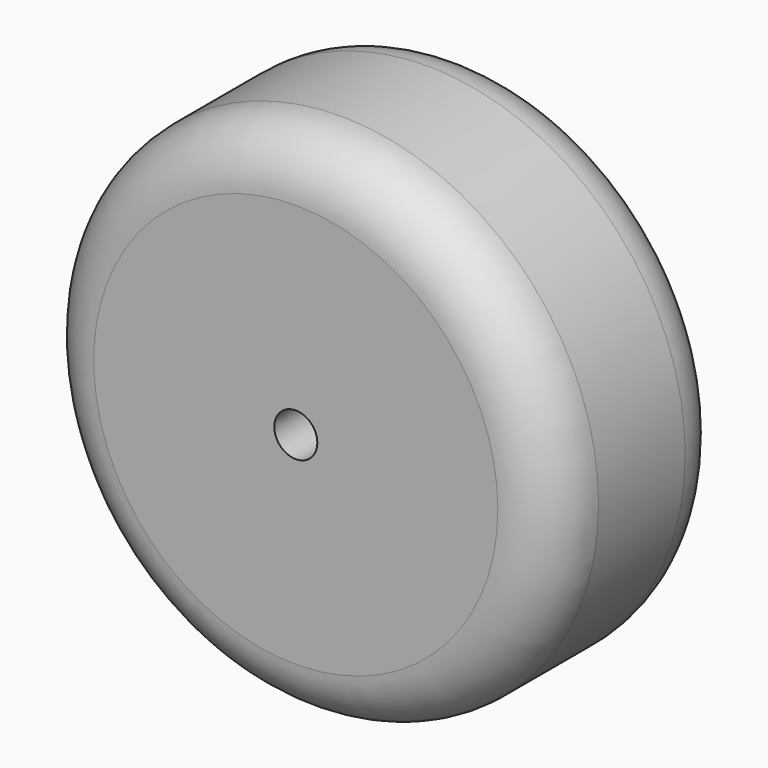
from build123d import *

# Parameters (mm, degrees)
F0_R     = 30
F0_R_2   = 5.864988
F0_R_3   = 2.5
F1_DEPTH = 25.6
F2_R     = 6.5
F3_DEPTH = 2.75


with BuildPart() as f1:
    # F0 (on Front) → F1 (new body)
    with BuildSketch(Plane.XZ):
        Circle(F0_R)
        Circle(F0_R_2, mode=Mode.SUBTRACT)
        Circle(F0_R_2)
        Circle(F0_R_3, mode=Mode.SUBTRACT)
    extrude(amount=F1_DEPTH)

    # F2
    f2_edges = [f1.edges().sort_by_distance(p)[0] for p in [
        (-30, -25.6, 0),
        (-30, 0, 0),
    ]]
    fillet(f2_edges, radius=F2_R)


with BuildPart() as f3:
    # F0 (on Front) → F3 (new body)
    with BuildSketch(Plane.XZ):
        Circle(F0_R_2)
        Circle(F0_R_3, mode=Mode.SUBTRACT)
    extrude(amount=-F3_DEPTH)


solid = Compound([f1.part, f3.part])
